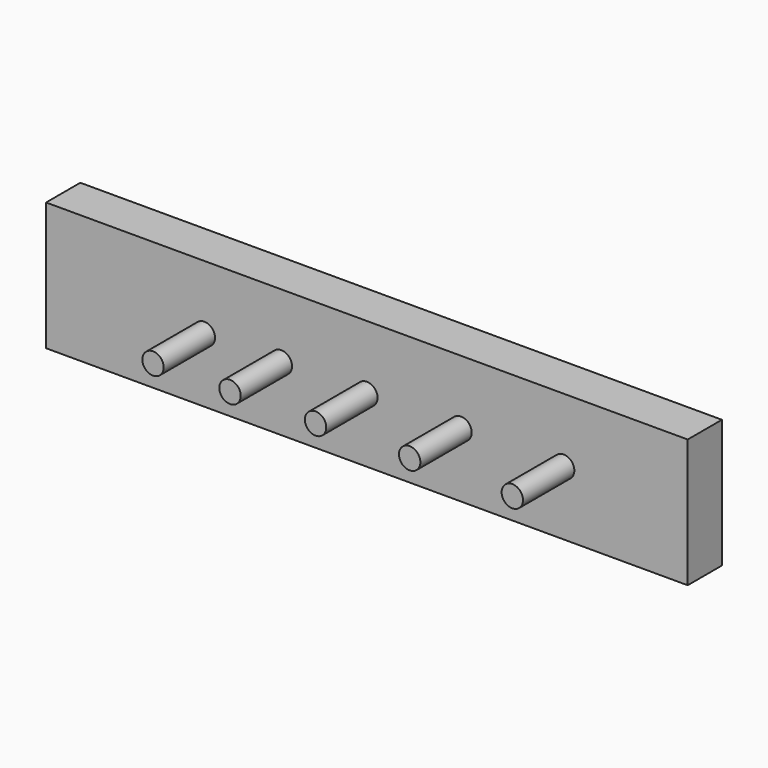
from build123d import *

# Parameters (mm, degrees)
F0_W     = 150
F0_H     = 30
F1_DEPTH = 10
F2_R     = 2.5
F3_DEPTH = 15


with BuildPart() as f1:
    # F0 (on Front) → F1 (new body)
    with BuildSketch(Plane.XZ):
        Rectangle(F0_W, F0_H)
    extrude(amount=-F1_DEPTH)

    # F2 (on face) → F3 (join)
    with BuildSketch(Plane.XZ):
        with Locations((-38, 0)):
            Circle(F2_R)
        with Locations((-20, 0)):
            Circle(F2_R)
        Circle(F2_R)
        with Locations((22, 0)):
            Circle(F2_R)
        with Locations((46, 0)):
            Circle(F2_R)
    extrude(amount=F3_DEPTH)


solid = f1.part
